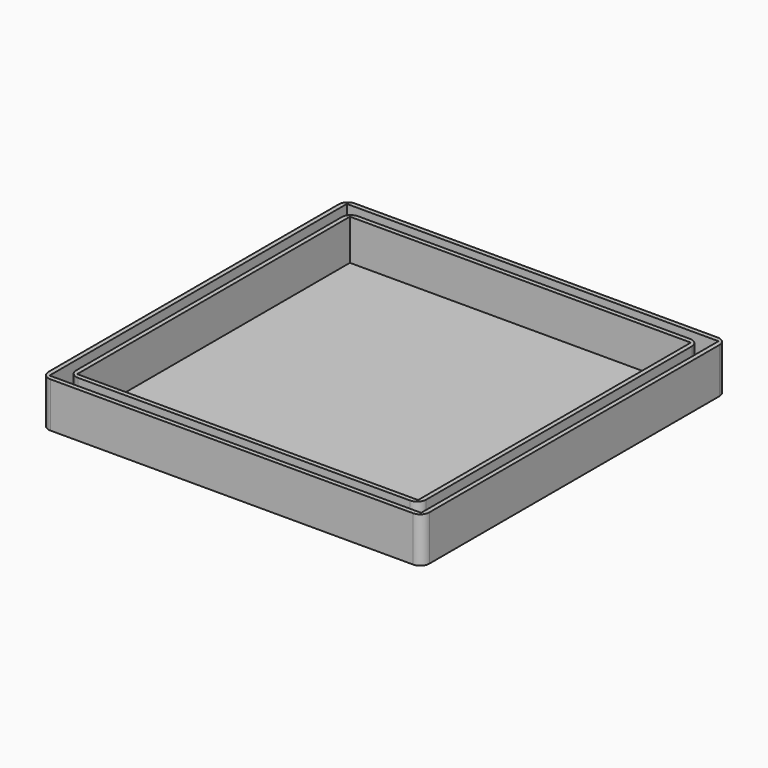
from build123d import *

# Parameters (mm, degrees)
F0_W     = 82.3
F0_H     = 82.3
F0_W_2   = 75.5
F0_H_2   = 75.5
F1_DEPTH = 10
F2_DEPTH = 1


with BuildPart() as f1:
    # F0 (on Top) → F1 (new body)
    with BuildSketch(Plane.XY):
        with BuildLine():
            ThreePointArc((42.15, 40.15), (41.564214, 41.564214), (40.15, 42.15))
            Line((40.15, 42.15), (-40.15, 42.15))
            ThreePointArc((-40.15, 42.15), (-41.564214, 41.564214), (-42.15, 40.15))
            Line((-42.15, 40.15), (-42.15, -40.15))
            ThreePointArc((-42.15, -40.15), (-41.564214, -41.564214), (-40.15, -42.15))
            Line((-40.15, -42.15), (40.15, -42.15))
            ThreePointArc((40.15, -42.15), (41.564214, -41.564214), (42.15, -40.15))
            Line((42.15, -40.15), (42.15, 40.15))
        make_face()
        Rectangle(F0_W, F0_H, mode=Mode.SUBTRACT)
        with BuildLine():
            ThreePointArc((-36.75, 38.75), (-38.164214, 38.164214), (-38.75, 36.75))
            Line((-38.75, 36.75), (-38.75, -36.75))
            ThreePointArc((-38.75, -36.75), (-38.164214, -38.164214), (-36.75, -38.75))
            Line((-36.75, -38.75), (36.75, -38.75))
            ThreePointArc((36.75, -38.75), (38.164214, -38.164214), (38.75, -36.75))
            Line((38.75, -36.75), (38.75, 36.75))
            ThreePointArc((38.75, 36.75), (38.164214, 38.164214), (36.75, 38.75))
            Line((36.75, 38.75), (-36.75, 38.75))
        make_face()
        Rectangle(F0_W_2, F0_H_2, mode=Mode.SUBTRACT)
    extrude(amount=F1_DEPTH)

    # F0 (on Top) → F2 (join)
    with BuildSketch(Plane.XY):
        Rectangle(F0_W, F0_H)
        with BuildLine():
            Line((-38.75, -36.75), (-38.75, 36.75))
            ThreePointArc((-38.75, 36.75), (-38.164214, 38.164214), (-36.75, 38.75))
            Line((-36.75, 38.75), (36.75, 38.75))
            ThreePointArc((36.75, 38.75), (38.164214, 38.164214), (38.75, 36.75))
            Line((38.75, 36.75), (38.75, -36.75))
            ThreePointArc((38.75, -36.75), (38.164214, -38.164214), (36.75, -38.75))
            Line((36.75, -38.75), (-36.75, -38.75))
            ThreePointArc((-36.75, -38.75), (-38.164214, -38.164214), (-38.75, -36.75))
        make_face(mode=Mode.SUBTRACT)
        Rectangle(F0_W_2, F0_H_2)
    extrude(amount=F2_DEPTH)


solid = f1.part
